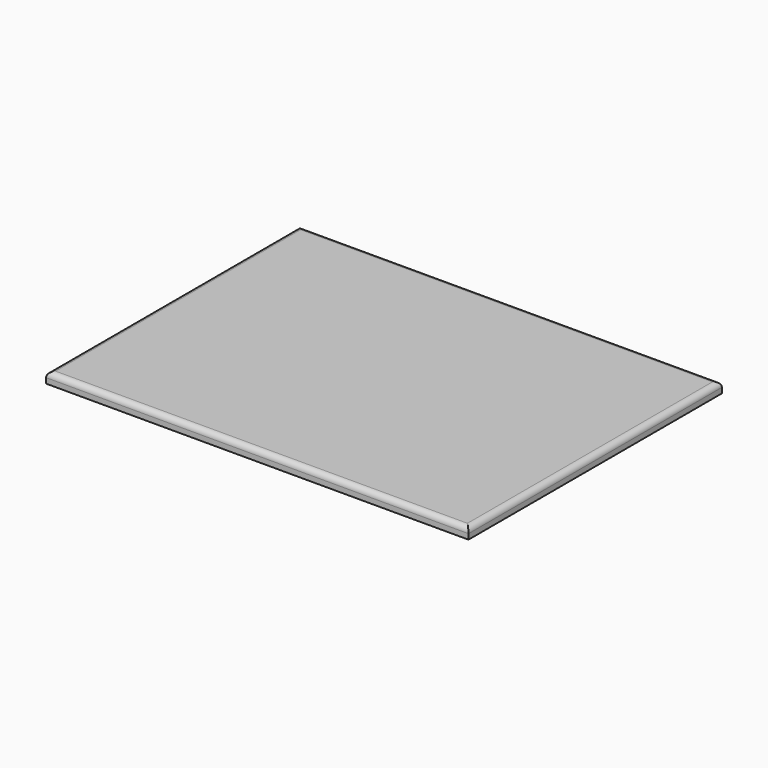
from build123d import *

# Parameters (mm, degrees)
F0_W     = 276
F0_H     = 126
F1_DEPTH = 12
F2_R     = 5
F4_W     = 400
F4_H     = 300
F5_DEPTH = 10
F6_R     = 5


with BuildPart() as f1:
    # F0 (on Top) → F1 (new body)
    with BuildSketch(Plane.XY):
        Rectangle(F0_W, F0_H)
    extrude(amount=F1_DEPTH)

    # F2
    f2_edges = [f1.edges().sort_by_distance(p)[0] for p in [
        (0, -63, 12),
        (-138, 0, 12),
        (138, 0, 12),
        (0, 63, 12),
    ]]
    fillet(f2_edges, radius=F2_R)


with BuildPart() as f5:
    # F4 (on Top) → F5 (new body)
    with BuildSketch(Plane.XY):
        Rectangle(F4_W, F4_H)
    extrude(amount=F5_DEPTH)

    # F6
    f6_edges = [f5.edges().sort_by_distance(p)[0] for p in [
        (0, -150, 10),
        (-200, 0, 10),
        (200, 0, 10),
        (0, 150, 10),
    ]]
    fillet(f6_edges, radius=F6_R)


solid = f5.part
